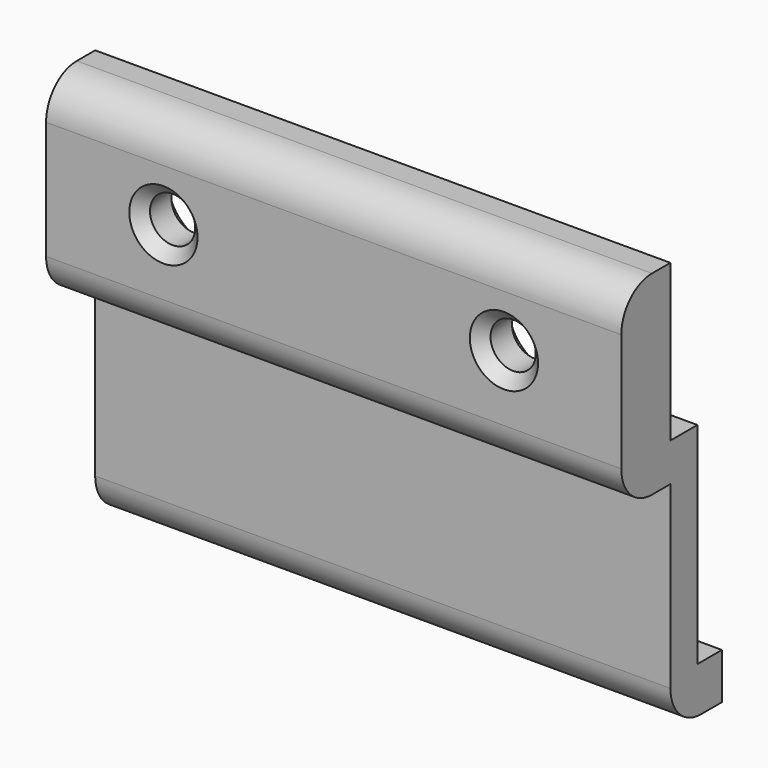
from build123d import *

# Parameters (mm, degrees)
F1_DEPTH = 75
F2_R     = 2.95
F3_DEPTH = 5
F4_DEPTH = 3
F5_R     = 5
F6_SIZE  = 1.5


with BuildPart() as f1:
    # F0 (on Right) → F1 (new body)
    with BuildSketch(Plane.YZ):
        Polygon((0, 14.4), (0, 20.4), (-8, 20.4), (-8, -5), (0, -5), (0, -33.45), (8.4, -33.45), (8.4, -27.45), (4.4, -27.45), (4.4, 0), (0, 0), (0, 2.8), (-3, 2.8), (-3, 14.4), align=None)
    extrude(amount=F1_DEPTH)

    # F2 (on face) → F3 (cut, through all)
    with BuildSketch(Plane(origin=(0, -3, 0), x_dir=(-1, 0, 0), z_dir=(0, 1, 0))):
        with Locations((-59.7, 8.6)):
            Circle(F2_R)
        with Locations((-15.3, 8.6)):
            Circle(F2_R)
    extrude(amount=-F3_DEPTH, mode=Mode.SUBTRACT)

    # F2 (on face) → F4 (join, through all)
    with BuildSketch(Plane(origin=(0, -3, 0), x_dir=(-1, 0, 0), z_dir=(0, 1, 0))):
        with BuildLine():
            Line((-75, 2.8), (-59.7, 2.8))
            ThreePointArc((-59.7, 2.8), (-65.5, 8.6), (-59.7, 14.4))
            Line((-59.7, 14.4), (-75, 14.4))
            Line((-75, 14.4), (-75, 2.8))
        make_face()
        with BuildLine():
            Line((-15.3, 2.8), (0, 2.8))
            Line((0, 2.8), (0, 14.4))
            Line((0, 14.4), (-15.3, 14.4))
            ThreePointArc((-15.3, 14.4), (-11.198781, 12.701219), (-9.5, 8.6))
            ThreePointArc((-9.5, 8.6), (-11.198781, 4.498781), (-15.3, 2.8))
        make_face()
        with BuildLine():
            Line((-59.7, 2.8), (-15.3, 2.8))
            ThreePointArc((-15.3, 2.8), (-21.1, 8.6), (-15.3, 14.4))
            Line((-15.3, 14.4), (-59.7, 14.4))
            ThreePointArc((-59.7, 14.4), (-55.598781, 12.701219), (-53.9, 8.6))
            ThreePointArc((-53.9, 8.6), (-55.598781, 4.498781), (-59.7, 2.8))
        make_face()
    extrude(amount=F4_DEPTH)

    # F5
    f5_edges = [f1.edges().sort_by_distance(p)[0] for p in [
        (37.5, -8, 20.4),
        (37.5, -8, -5),
        (37.5, 0, -33.45),
    ]]
    fillet(f5_edges, radius=F5_R)

    # F6
    f6_edges = [f1.edges().sort_by_distance(p)[0] for p in [
        (18.25, -8, 8.6),
        (62.65, -8, 8.6),
    ]]
    chamfer(f6_edges, length=F6_SIZE)


solid = f1.part
